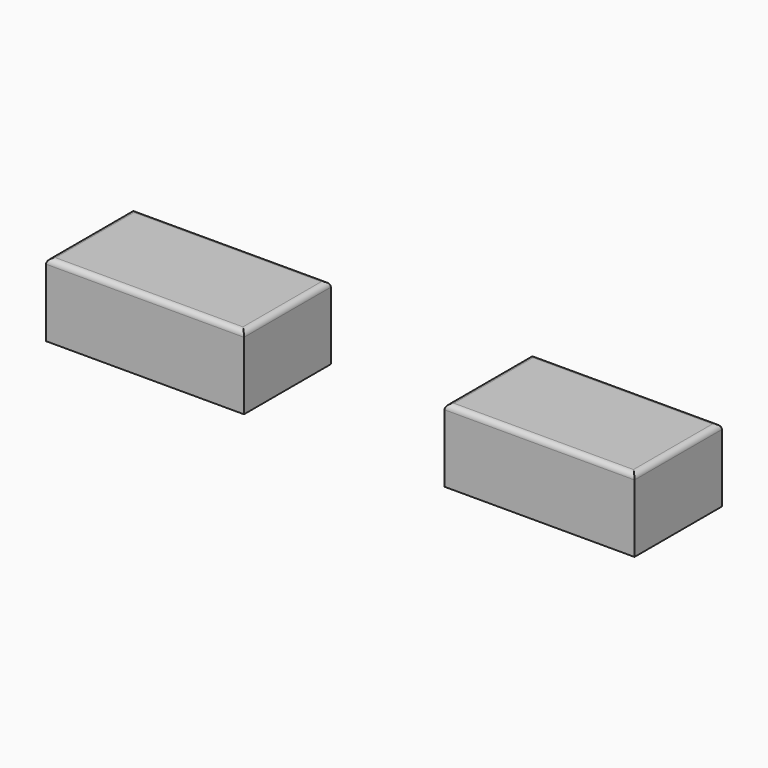
from build123d import *

# Parameters (mm, degrees)
F0_W     = 189.856864
F0_H     = 104.099866
F1_DEPTH = 70.104
F2_W     = 182.226122
F2_H     = 104.820341
F3_DEPTH = 70.104
F4_R     = 5.08
F4_2_R   = 5.08


with BuildPart() as f1:
    # F0 (on Top) → F1 (new body)
    with BuildSketch(Plane.XY):
        with Locations((-28.605435, -20.331668)):
            Rectangle(F0_W, F0_H)
    extrude(amount=F1_DEPTH)

    # F4
    f4_edges = [f1.edges().sort_by_distance(p)[0] for p in [
        (-28.605435, -72.381601, 70.104),
        (66.322997, -20.331668, 70.104),
        (-28.605435, 31.718265, 70.104),
        (-123.533867, -20.331668, 70.104),
    ]]
    fillet(f4_edges, radius=F4_R)


with BuildPart() as f3:
    # F2 (on Top) → F3 (new body)
    with BuildSketch(Plane.XY):
        with Locations((348.197311, -17.934396)):
            Rectangle(F2_W, F2_H)
    extrude(amount=F3_DEPTH)

    # F4#2
    f4_2_edges = [f3.edges().sort_by_distance(p)[0] for p in [
        (257.08425, -17.934397, 70.104),
        (348.197311, -70.344567, 70.104),
        (439.310372, -17.934397, 70.104),
        (348.197311, 34.475774, 70.104),
    ]]
    fillet(f4_2_edges, radius=F4_2_R)


solid = Compound([f1.part, f3.part])
